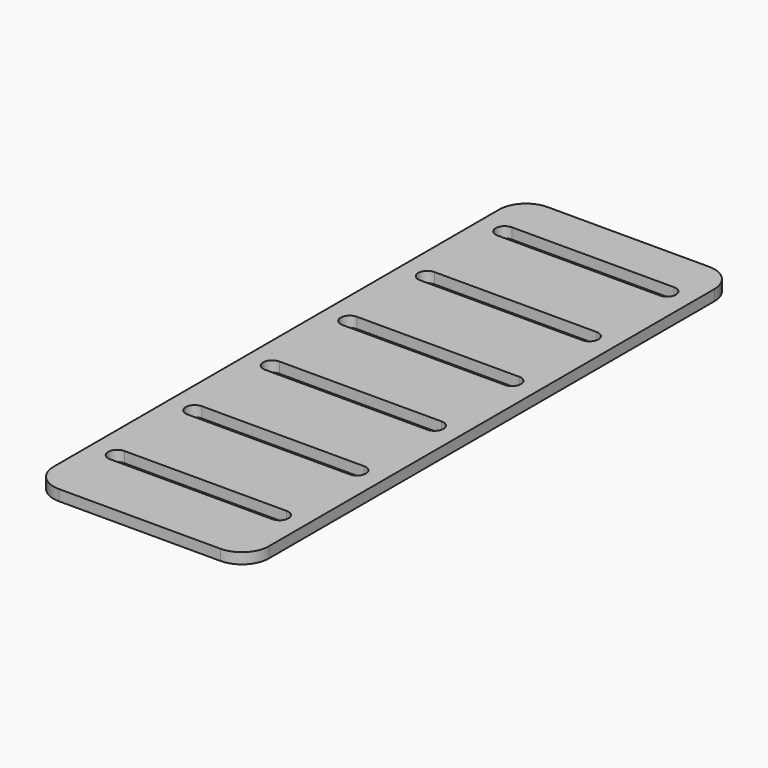
from build123d import *

# Parameters (mm, degrees)
SKETCH006_W            = 40
SKETCH006_H            = 113.480256
PAD001_DEPTH           = 2
FILLET_R               = 5
FILLET001_R            = 5
FILLET002_R            = 5
FILLET003_R            = 5
POCKET003_DEPTH        = 242.68144
LINEARPATTERN001_COUNT = 6
LINEARPATTERN001_PITCH = 18


with BuildPart() as part:
    # Sketch006 → Pad001 (new body)
    with BuildSketch(Plane.XY.offset(40)):
        Rectangle(SKETCH006_W, SKETCH006_H)
    extrude(amount=PAD001_DEPTH)

    # Fillet
    fillet_edges = [part.edges().sort_by_distance(p)[0] for p in [
        (20, 56.740128, 41),
    ]]
    fillet(fillet_edges, radius=FILLET_R)

    # Fillet001
    fillet001_edges = [part.edges().sort_by_distance(p)[0] for p in [
        (-20, 56.740128, 41),
    ]]
    fillet(fillet001_edges, radius=FILLET001_R)

    # Fillet002
    fillet002_edges = [part.edges().sort_by_distance(p)[0] for p in [
        (-20, -56.740128, 41),
    ]]
    fillet(fillet002_edges, radius=FILLET002_R)

    # Fillet003
    fillet003_edges = [part.edges().sort_by_distance(p)[0] for p in [
        (20, -56.740128, 41),
    ]]
    fillet(fillet003_edges, radius=FILLET003_R)

    # Sketch007 → Pocket003 (cut, through all)
    with BuildSketch(Plane.XY.offset(42)):
        with BuildLine():
            ThreePointArc((-15.079723, 48.539704), (-16.741783, 46.877644), (-15.079723, 45.215584))
            Line((-15.079723, 45.215584), (15.079723, 45.215584))
            ThreePointArc((15.079723, 45.215584), (16.741783, 46.877644), (15.079723, 48.539704))
            Line((-15.079723, 48.539704), (15.079723, 48.539704))
        make_face()
    pocket003 = extrude(amount=-POCKET003_DEPTH, mode=Mode.SUBTRACT)

    # LinearPattern001: Pocket003 ×6
    with Locations(*[(0, -i * LINEARPATTERN001_PITCH, 0) for i in range(1, LINEARPATTERN001_COUNT)]):
        add(pocket003, mode=Mode.SUBTRACT)


solid = part.part
